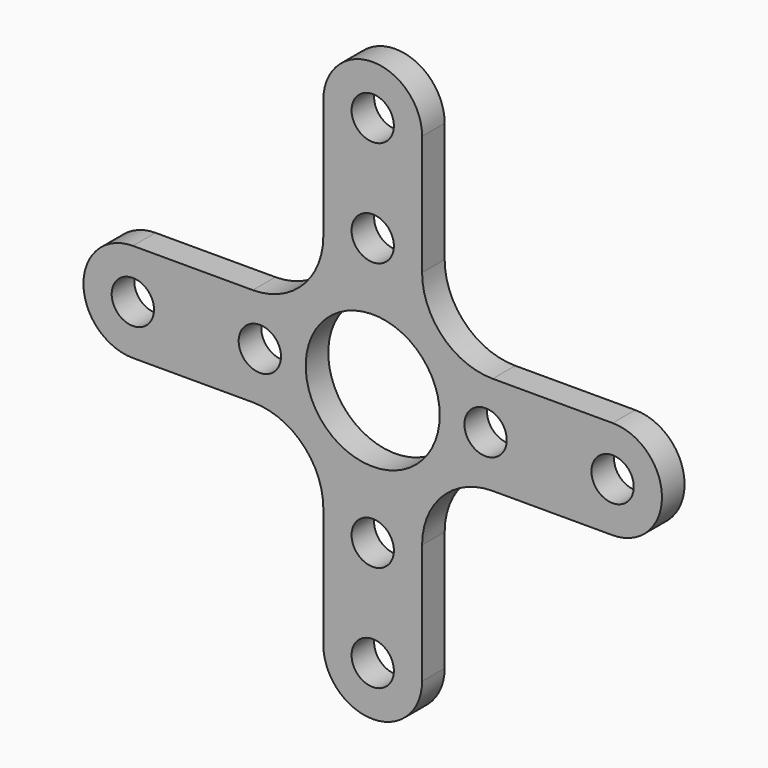
from build123d import *

# Parameters (mm, degrees)
F0_R     = 1.5
F0_R_2   = 4.75
F1_DEPTH = 2


with BuildPart() as f1:
    # F0 (on Front) → F1 (new body)
    with BuildSketch(Plane.XZ):
        with BuildLine():
            Line((-8.5, 3.5), (-17, 3.5))
            ThreePointArc((-17, 3.5), (-20.5, 0), (-17, -3.5))
            Line((-17, -3.5), (-8.5, -3.5))
            ThreePointArc((-8.5, -3.5), (-4.964466, -4.964466), (-3.5, -8.5))
            Line((-3.5, -8.5), (-3.5, -17))
            ThreePointArc((-3.5, -17), (0, -20.5), (3.5, -17))
            Line((3.5, -17), (3.5, -8.5))
            ThreePointArc((3.5, -8.5), (4.964466, -4.964466), (8.5, -3.5))
            Line((8.5, -3.5), (17, -3.5))
            ThreePointArc((17, -3.5), (20.5, 0), (17, 3.5))
            Line((17, 3.5), (8.5, 3.5))
            ThreePointArc((8.5, 3.5), (4.964466, 4.964466), (3.5, 8.5))
            Line((3.5, 8.5), (3.5, 17))
            ThreePointArc((3.5, 17), (0, 20.5), (-3.5, 17))
            Line((-3.5, 17), (-3.5, 8.5))
            ThreePointArc((-3.5, 8.5), (-4.964466, 4.964466), (-8.5, 3.5))
        make_face()
        with Locations((0, -17)):
            Circle(F0_R, mode=Mode.SUBTRACT)
        with Locations((0, -9.5)):
            Circle(F0_R, mode=Mode.SUBTRACT)
        with Locations((-17, 0)):
            Circle(F0_R, mode=Mode.SUBTRACT)
        with Locations((-8, 0)):
            Circle(F0_R, mode=Mode.SUBTRACT)
        Circle(F0_R_2, mode=Mode.SUBTRACT)
        with Locations((8, 0)):
            Circle(F0_R, mode=Mode.SUBTRACT)
        with Locations((0, 9.5)):
            Circle(F0_R, mode=Mode.SUBTRACT)
        with Locations((17, 0)):
            Circle(F0_R, mode=Mode.SUBTRACT)
        with Locations((0, 17)):
            Circle(F0_R, mode=Mode.SUBTRACT)
    extrude(amount=F1_DEPTH)


solid = f1.part
